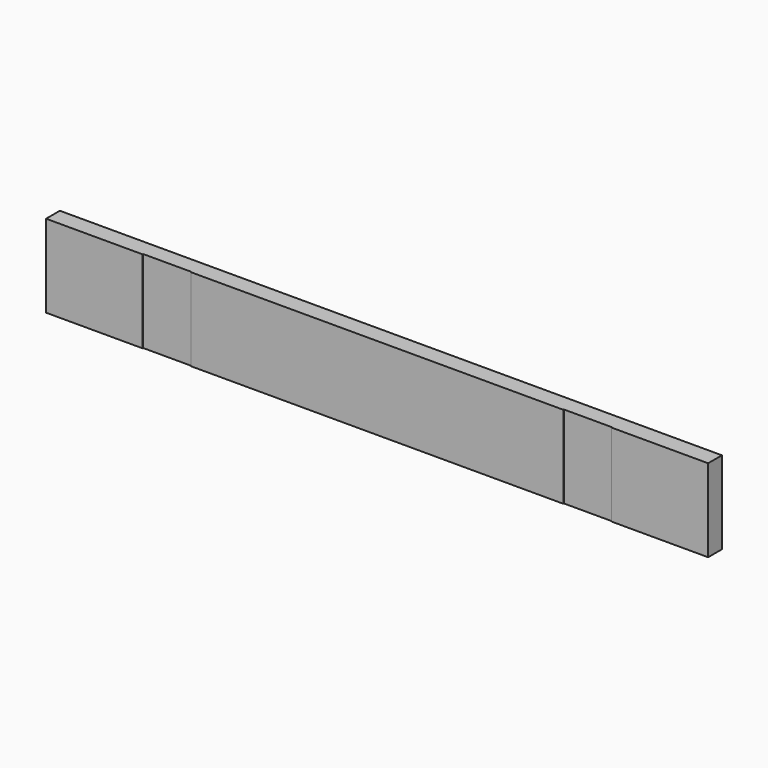
from build123d import *

# Parameters (mm, degrees)
F0_W     = 1219.2
F0_H     = 152.4
F1_DEPTH = 31.75
F2_W     = 88.9
F2_H     = 152.4
F3_DEPTH = 1.27
F4_DEPTH = 1.27


with BuildPart() as f1:
    # F0 (on Front) → F1 (new body)
    with BuildSketch(Plane.XZ):
        with Locations((-609.6, 76.2)):
            Rectangle(F0_W, F0_H)
    extrude(amount=F1_DEPTH)

    # F2 (on face) → F3 (cut)
    with BuildSketch(Plane.XZ.offset(31.75)):
        with Locations((-996.95, 76.2)):
            Rectangle(F2_W, F2_H)
    extrude(amount=-F3_DEPTH, mode=Mode.SUBTRACT)

    # F2 (on face) → F4 (cut)
    with BuildSketch(Plane.XZ.offset(31.75)):
        with Locations((-222.25, 76.2)):
            Rectangle(F2_W, F2_H)
    extrude(amount=-F4_DEPTH, mode=Mode.SUBTRACT)


solid = f1.part
